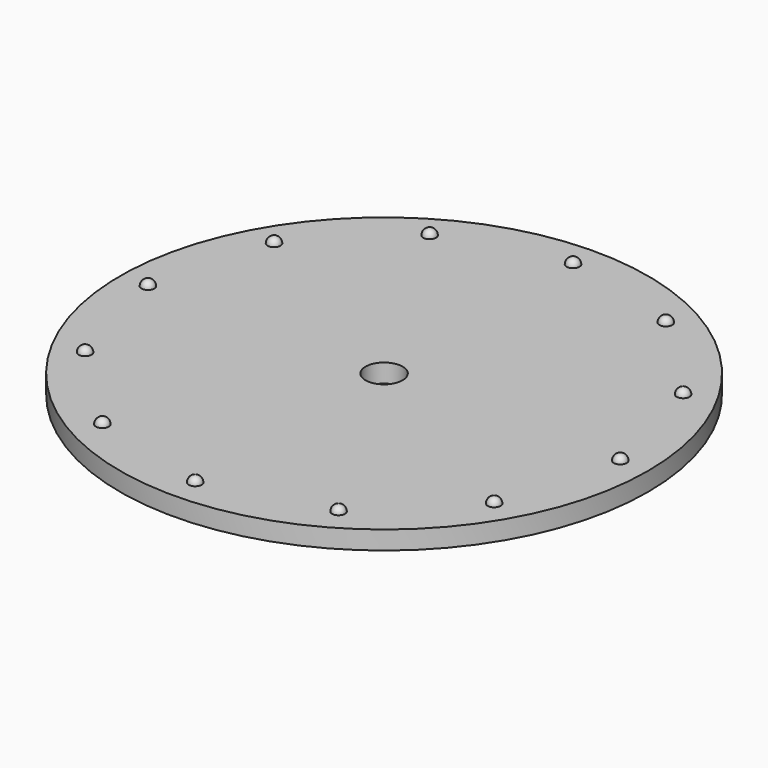
from build123d import *

# Parameters (mm, degrees)
SKETCH029_R    = 14.25
SKETCH029_R_2  = 1
PAD005_DEPTH   = 1
ARRAY_COUNT    = 12
ARRAY001_COUNT = 11
ARRAY001_ANGLE = 300


with BuildPart() as dial:
    # Sketch029 → Pad005 (new body)
    with BuildSketch(Plane.XY):
        Circle(SKETCH029_R)
        Circle(SKETCH029_R_2, mode=Mode.SUBTRACT)
    extrude(amount=PAD005_DEPTH)


with BuildPart() as array:
    # Sphere → Sphere (revolve)
    with BuildSketch(Plane(origin=(12.75, 0, 1), x_dir=(1, 0, 0), z_dir=(0, -1, 0))):
        with BuildLine():
            ThreePointArc((0, -0.35), (0.35, 0), (0, 0.35))
            Line((0, 0.35), (0, -0.35))
        make_face()
    revolve(axis=Axis((12.75, 0, 1), (0, 0, 1)))

    # Array: Array ×12 about axis
    array_axis = Axis((0, 0, 0), (0, 0, 1))


with BuildPart() as array_1:
    add(array.part)
    for i in range(1, ARRAY_COUNT):
        add(array.part.rotate(array_axis, i * 360 / ARRAY_COUNT))


with BuildPart() as array001:
    # Sphere001 → Sphere001 (revolve)
    with BuildSketch(Plane(origin=(12.75, 0, 1), x_dir=(1, 0, 0), z_dir=(0, -1, 0))):
        with BuildLine():
            ThreePointArc((0, -0.35), (0.35, 0), (0, 0.35))
            Line((0, 0.35), (0, -0.35))
        make_face()
    revolve(axis=Axis((12.75, 0, 1), (0, 0, 1)))

    # Array001: Array001 ×11 about axis
    array001_axis = Axis((0, 0, 0), (0, 0, 1))


with BuildPart() as array001_1:
    add(array001.part)
    for i in range(1, ARRAY001_COUNT):
        add(array001.part.rotate(array001_axis, i * ARRAY001_ANGLE / (ARRAY001_COUNT - 1)))


solid = Compound([dial.part, array_1.part, array001_1.part])
